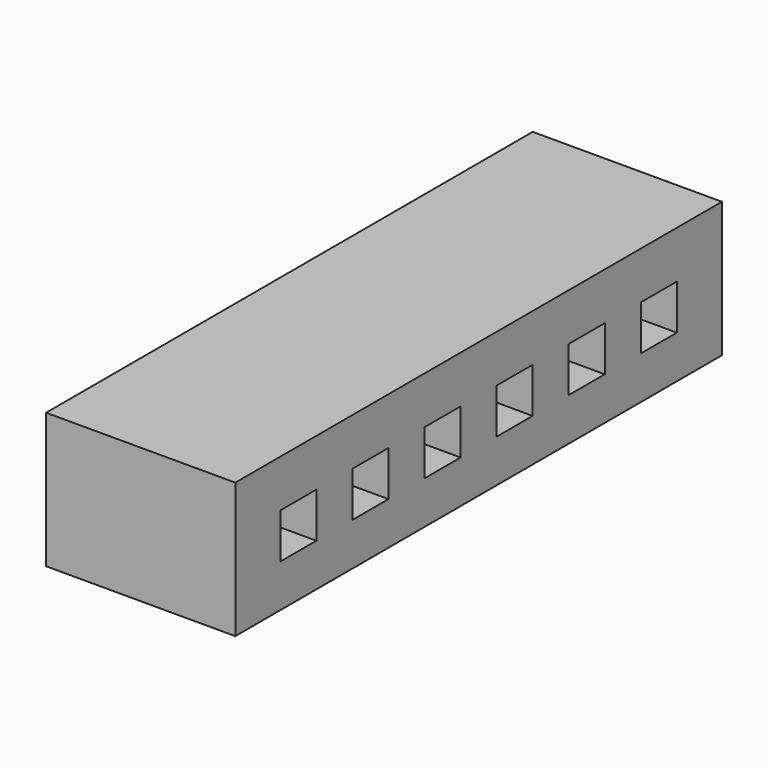
from build123d import *

# Parameters (mm, degrees)
BOX121_W        = 2.1
BOX121_H        = 6.75
BOX121_DEPTH    = 1.5
BOX122_W        = 3.5
BOX122_H        = 0.5
BOX122_DEPTH    = 0.5
BOX123_W        = 3.5
BOX123_H        = 0.5
BOX123_DEPTH    = 0.5
BOX124_W        = 3
BOX124_H        = 0.5
BOX124_DEPTH    = 0.5
BOX125_W        = 3.5
BOX125_H        = 0.5
BOX125_DEPTH    = 0.5
BOX126_W        = 3.5
BOX126_H        = 0.5
BOX126_DEPTH    = 0.5
BOX175_W        = 3.5
BOX175_H        = 0.5
BOX175_DEPTH    = 0.5
CHAMFER062_SIZE = 0.1


with BuildPart() as part:
    # Box121 → Box121 (join)
    with BuildSketch(Plane(origin=(-2.1, -1.375, 0), x_dir=(1, 0, 0), z_dir=(0, 0, 1))):
        with Locations((1.05, 3.375)):
            Rectangle(BOX121_W, BOX121_H)
    extrude(amount=BOX121_DEPTH)

    # Box122 → Box122 (cut)
    with BuildSketch(Plane(origin=(-2.2, 4.25, 0.475), x_dir=(1, 0, 0), z_dir=(0, 0, 1))):
        with Locations((1.75, 0.25)):
            Rectangle(BOX122_W, BOX122_H)
    extrude(amount=BOX122_DEPTH, mode=Mode.SUBTRACT)

    # Box123 → Box123 (cut)
    with BuildSketch(Plane(origin=(-2.5, 3.25, 0.475), x_dir=(1, 0, 0), z_dir=(0, 0, 1))):
        with Locations((1.75, 0.25)):
            Rectangle(BOX123_W, BOX123_H)
    extrude(amount=BOX123_DEPTH, mode=Mode.SUBTRACT)

    # Box124 → Box124 (cut)
    with BuildSketch(Plane(origin=(-2.5, 2.25, 0.475), x_dir=(1, 0, 0), z_dir=(0, 0, 1))):
        with Locations((1.5, 0.25)):
            Rectangle(BOX124_W, BOX124_H)
    extrude(amount=BOX124_DEPTH, mode=Mode.SUBTRACT)

    # Box125 → Box125 (cut)
    with BuildSketch(Plane(origin=(-2.5, 1.25, 0.475), x_dir=(1, 0, 0), z_dir=(0, 0, 1))):
        with Locations((1.75, 0.25)):
            Rectangle(BOX125_W, BOX125_H)
    extrude(amount=BOX125_DEPTH, mode=Mode.SUBTRACT)

    # Box126 → Box126 (cut)
    with BuildSketch(Plane(origin=(-2.5, 0.25, 0.475), x_dir=(1, 0, 0), z_dir=(0, 0, 1))):
        with Locations((1.75, 0.25)):
            Rectangle(BOX126_W, BOX126_H)
    extrude(amount=BOX126_DEPTH, mode=Mode.SUBTRACT)

    # Box175 → Box175 (cut)
    with BuildSketch(Plane(origin=(-3, -0.75, 0.475), x_dir=(1, 0, 0), z_dir=(0, 0, 1))):
        with Locations((1.75, 0.25)):
            Rectangle(BOX175_W, BOX175_H)
    extrude(amount=BOX175_DEPTH, mode=Mode.SUBTRACT)

    # Chamfer062
    chamfer062_edges = [part.edges().sort_by_distance(p)[0] for p in [
        (-2.1, 4.5, 0.975),
        (-2.1, 4.75, 0.725),
        (-2.1, 4.5, 0.475),
        (-2.1, 4.25, 0.725),
        (-2.1, 3.75, 0.725),
        (-2.1, 3.5, 0.975),
        (-2.1, 3.25, 0.725),
        (-2.1, 3.5, 0.475),
        (-2.1, 2.75, 0.725),
        (-2.1, 2.5, 0.975),
        (-2.1, 2.5, 0.475),
        (-2.1, 2.25, 0.725),
        (-2.1, 1.75, 0.725),
        (-2.1, 1.5, 0.975),
        (-2.1, 1.5, 0.475),
        (-2.1, 1.25, 0.725),
        (-2.1, 0.75, 0.725),
        (-2.1, 0.5, 0.975),
        (-2.1, 0.5, 0.475),
        (-2.1, 0.25, 0.725),
        (-2.1, -0.25, 0.725),
        (-2.1, -0.5, 0.975),
        (-2.1, -0.5, 0.475),
        (-2.1, -0.75, 0.725),
    ]]
    chamfer(chamfer062_edges, length=CHAMFER062_SIZE)


with BuildPart() as part_1:
    # Body042 placement: moved
    add(part.part.moved(Location((0, -2, 0))))


solid = part_1.part
